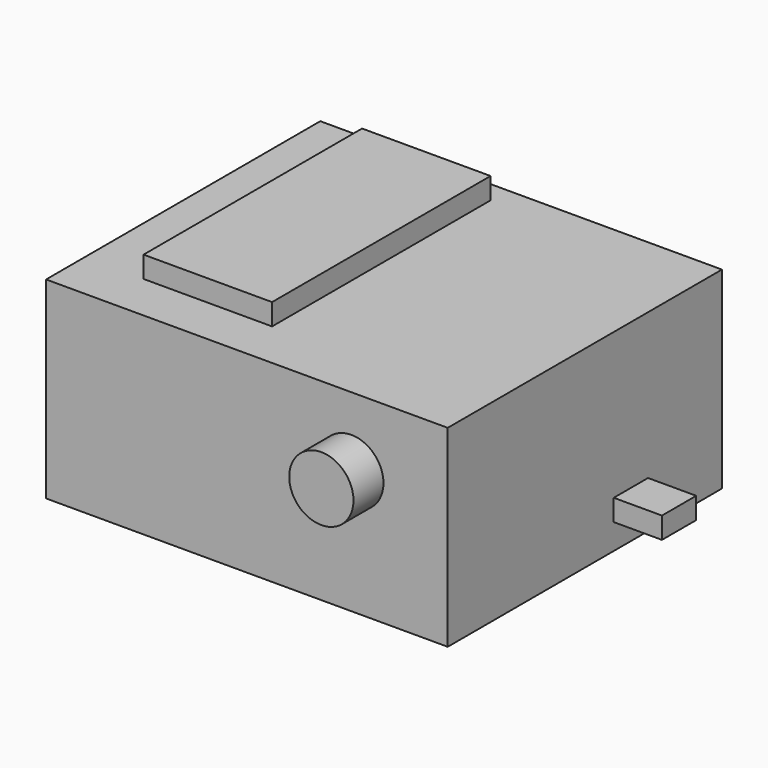
from build123d import *

# Parameters (mm, degrees)
CYLINDER_R                = 6
CYLINDER_DEPTH            = 9
BOX_W                     = 30
BOX_H                     = 16
BOX_DEPTH                 = 30
FUSION_PLACEMENT_ANGLE    = 90
BOX002_W                  = 51
BOX002_H                  = 24
BOX002_DEPTH              = 7
BOX001_W                  = 51
BOX001_H                  = 28
BOX001_DEPTH              = 6
FUSION001_PLACEMENT_ANGLE = 90
BOX003_W                  = 50
BOX003_H                  = 27
BOX003_DEPTH              = 12
CYLINDER002_R             = 3.35
CYLINDER002_DEPTH         = 6.7
CYLINDER001_R             = 4.65
CYLINDER001_DEPTH         = 19
FUSION002_PLACEMENT_ANGLE = 270
CYLINDER004_R             = 3.35
CYLINDER004_DEPTH         = 6.7
CYLINDER003_R             = 4.65
CYLINDER003_DEPTH         = 19
FUSION003_PLACEMENT_ANGLE = 270
BOX007_W                  = 10
BOX007_H                  = 10
BOX007_DEPTH              = 10
BOX006_W                  = 10
BOX006_H                  = 10
BOX006_DEPTH              = 10
BOX005_W                  = 10
BOX005_H                  = 8
BOX005_DEPTH              = 4
BOX004_W                  = 29
BOX004_H                  = 19.5
BOX004_DEPTH              = 7.25
BOX008_W                  = 28
BOX008_H                  = 18
BOX008_DEPTH              = 12.2
CYLINDER005_R             = 3
CYLINDER005_DEPTH         = 10
BOX009_W                  = 30
BOX009_H                  = 30
BOX009_DEPTH              = 6
FUSION005_PLACEMENT_ANGLE = 270
BOX010_W                  = 75
BOX010_H                  = 64
BOX010_DEPTH              = 36
BOX011_W                  = 70
BOX011_H                  = 60
BOX011_DEPTH              = 30


with BuildPart() as cylinder:
    # Cylinder → Cylinder (new body)
    with BuildSketch(Plane(origin=(15, 8, 30), x_dir=(1, 0, 0), z_dir=(0, 0, 1))):
        Circle(CYLINDER_R)
    extrude(amount=CYLINDER_DEPTH)


with BuildPart() as awesome_switch:
    # Box → Box (new body)
    with BuildSketch(Plane.XY):
        with Locations((15, 8)):
            Rectangle(BOX_W, BOX_H)
    extrude(amount=BOX_DEPTH)

    # Fusion: union Cylinder
    add(cylinder.part)


with BuildPart() as awesome_switch_1:
    # Fusion placement: moved
    add(awesome_switch.part.moved(Location((0, 17, 12))).rotate(Axis((0, 17, 12), (1, 0, 0)), FUSION_PLACEMENT_ANGLE))


with BuildPart() as cube002:
    # Box002 → Box002 (new body)
    with BuildSketch(Plane(origin=(0, 2, 6), x_dir=(1, 0, 0), z_dir=(0, 0, 1))):
        with Locations((25.5, 12)):
            Rectangle(BOX002_W, BOX002_H)
    extrude(amount=BOX002_DEPTH)


with BuildPart() as lcd_display:
    # Box001 → Box001 (new body)
    with BuildSketch(Plane.XY):
        with Locations((25.5, 14)):
            Rectangle(BOX001_W, BOX001_H)
    extrude(amount=BOX001_DEPTH)

    # Fusion001: union Cube002
    add(cube002.part)


with BuildPart() as lcd_display_1:
    # Fusion001 placement: moved
    add(lcd_display.part.moved(Location((-5, -6, 24))).rotate(Axis((-5, -6, 24), (0, 0, 1)), FUSION001_PLACEMENT_ANGLE))


with BuildPart() as lipo_battery:
    # Box003 → Box003 (new body)
    with BuildSketch(Plane(origin=(-30, -10, 0), x_dir=(1, 0, 0), z_dir=(0, 0, 1))):
        with Locations((25, 13.5)):
            Rectangle(BOX003_W, BOX003_H)
    extrude(amount=BOX003_DEPTH)


with BuildPart() as cylinder002:
    # Cylinder002 → Cylinder002 (new body)
    with BuildSketch(Plane.XY.offset(19)):
        Circle(CYLINDER002_R)
    extrude(amount=CYLINDER002_DEPTH)


with BuildPart() as push_button_mode_reset:
    # Cylinder001 → Cylinder001 (new body)
    with BuildSketch(Plane.XY):
        Circle(CYLINDER001_R)
    extrude(amount=CYLINDER001_DEPTH)

    # Fusion002: union Cylinder002
    add(cylinder002.part)


with BuildPart() as push_button_mode_reset_1:
    # Fusion002 placement: moved
    add(push_button_mode_reset.part.moved(Location((20, 28, 20))).rotate(Axis((20, 28, 20), (1, 0, 0)), FUSION002_PLACEMENT_ANGLE))


with BuildPart() as cylinder004:
    # Cylinder004 → Cylinder004 (new body)
    with BuildSketch(Plane.XY.offset(19)):
        Circle(CYLINDER004_R)
    extrude(amount=CYLINDER004_DEPTH)


with BuildPart() as push_button_start_stop:
    # Cylinder003 → Cylinder003 (new body)
    with BuildSketch(Plane.XY):
        Circle(CYLINDER003_R)
    extrude(amount=CYLINDER003_DEPTH)

    # Fusion003: union Cylinder004
    add(cylinder004.part)


with BuildPart() as push_button_start_stop_1:
    # Fusion003 placement: moved
    add(push_button_start_stop.part.moved(Location((3, 28, 20))).rotate(Axis((3, 28, 20), (1, 0, 0)), FUSION003_PLACEMENT_ANGLE))


with BuildPart() as cube006:
    # Box007 → Box007 (new body)
    with BuildSketch(Plane(origin=(19, 14.5, 2), x_dir=(1, 0, 0), z_dir=(0, 0, 1))):
        with Locations((5, 5)):
            Rectangle(BOX007_W, BOX007_H)
    extrude(amount=BOX007_DEPTH)


with BuildPart() as cube005:
    # Box006 → Box006 (new body)
    with BuildSketch(Plane(origin=(19, -5, 2), x_dir=(1, 0, 0), z_dir=(0, 0, 1))):
        with Locations((5, 5)):
            Rectangle(BOX006_W, BOX006_H)
    extrude(amount=BOX006_DEPTH)


with BuildPart() as cube004:
    # Box005 → Box005 (new body)
    with BuildSketch(Plane(origin=(28, 5.75, 1.75), x_dir=(1, 0, 0), z_dir=(0, 0, 1))):
        with Locations((5, 4)):
            Rectangle(BOX005_W, BOX005_H)
    extrude(amount=BOX005_DEPTH)


with BuildPart() as usb_battery_charger:
    # Box004 → Box004 (new body)
    with BuildSketch(Plane.XY):
        with Locations((14.5, 9.75)):
            Rectangle(BOX004_W, BOX004_H)
    extrude(amount=BOX004_DEPTH)

    # Fusion004: union Cube004
    add(cube004.part)

    # Cut: cut Cube005
    add(cube005.part, mode=Mode.SUBTRACT)

    # Cut001: cut Cube006
    add(cube006.part, mode=Mode.SUBTRACT)


with BuildPart() as usb_battery_charger_1:
    # Cut001 placement: moved
    add(usb_battery_charger.part.moved(Location((4, 18, 0))))


with BuildPart() as obj1:
    # Box008 → Box008 (new body)
    with BuildSketch(Plane(origin=(-30, 19, 0), x_dir=(1, 0, 0), z_dir=(0, 0, 1))):
        with Locations((14, 9)):
            Rectangle(BOX008_W, BOX008_H)
    extrude(amount=BOX008_DEPTH)


with BuildPart() as cylinder005:
    # Cylinder005 → Cylinder005 (new body)
    with BuildSketch(Plane(origin=(15, 15, 0), x_dir=(1, 0, 0), z_dir=(0, 0, 1))):
        Circle(CYLINDER005_R)
    extrude(amount=CYLINDER005_DEPTH)


with BuildPart() as obj2:
    # Box009 → Box009 (new body)
    with BuildSketch(Plane.XY):
        with Locations((15, 15)):
            Rectangle(BOX009_W, BOX009_H)
    extrude(amount=BOX009_DEPTH)

    # Fusion005: union Cylinder005
    add(cylinder005.part)


with BuildPart() as obj2_1:
    # Fusion005 placement: moved
    add(obj2.part.moved(Location((-34, 0, 0))).rotate(Axis((-34, 0, 0), (0, 1, 0)), FUSION005_PLACEMENT_ANGLE))


with BuildPart() as outerbox:
    # Box010 → Box010 (new body)
    with BuildSketch(Plane(origin=(-42, -15, -3), x_dir=(1, 0, 0), z_dir=(0, 0, 1))):
        with Locations((37.5, 32)):
            Rectangle(BOX010_W, BOX010_H)
    extrude(amount=BOX010_DEPTH)


with BuildPart() as innerbox:
    # Box011 → Box011 (new body)
    with BuildSketch(Plane(origin=(-40, -13, 0), x_dir=(1, 0, 0), z_dir=(0, 0, 1))):
        with Locations((35, 30)):
            Rectangle(BOX011_W, BOX011_H)
    extrude(amount=BOX011_DEPTH)


solid = Compound([awesome_switch_1.part, lcd_display_1.part, lipo_battery.part, push_button_mode_reset_1.part, push_button_start_stop_1.part, usb_battery_charger_1.part, obj1.part, obj2_1.part, outerbox.part, innerbox.part])
